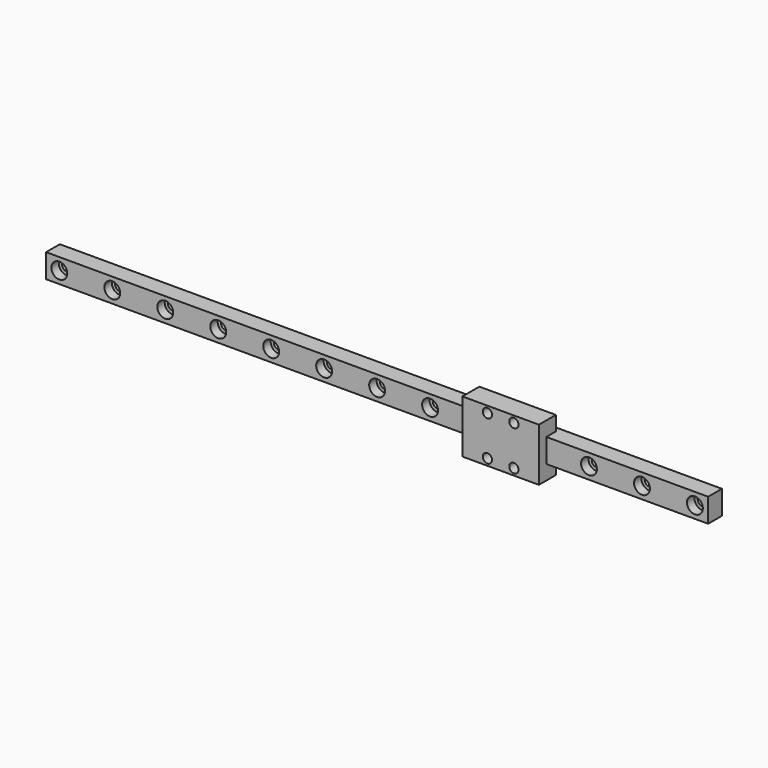
from build123d import *

# Parameters (mm, degrees)
SKETCH006_W             = 9
SKETCH006_H             = 250
PAD003_DEPTH            = 6.5
SKETCH008_R             = 1.75
POCKET003_DEPTH         = 6.5
LINEARPATTERN002_COUNT  = 13
LINEARPATTERN002_PITCH  = 20
SKETCH009_R             = 3
POCKET002_DEPTH         = 3.5
LINEARPATTERN003_COUNT  = 13
LINEARPATTERN003_PITCH  = 20
SKETCH007_W             = 20
SKETCH007_H             = 28.9
SKETCH007_R             = 1.75
PAD004_DEPTH            = 8
BODY002_PITCH_ANGLE     = 90
BODY002_PLACEMENT_ANGLE = -90


with BuildPart() as part:
    # Sketch006 → Pad003 (new body)
    with BuildSketch(Plane.XY):
        with Locations((0, 125)):
            Rectangle(SKETCH006_W, SKETCH006_H)
    extrude(amount=-PAD003_DEPTH)

    # Sketch008 → Pocket003 (cut)
    with BuildSketch(Plane.XY):
        with Locations((0, 5)):
            Circle(SKETCH008_R)
    pocket003 = extrude(amount=-POCKET003_DEPTH, mode=Mode.SUBTRACT)

    # LinearPattern002: Pocket003 ×13
    with Locations(*[(0, i * LINEARPATTERN002_PITCH, 0) for i in range(1, LINEARPATTERN002_COUNT)]):
        add(pocket003, mode=Mode.SUBTRACT)

    # Sketch009 → Pocket002 (cut)
    with BuildSketch(Plane.XY):
        with Locations((0, 5)):
            Circle(SKETCH009_R)
    pocket002 = extrude(amount=-POCKET002_DEPTH, mode=Mode.SUBTRACT)

    # LinearPattern003: Pocket002 ×13
    with Locations(*[(0, i * LINEARPATTERN003_PITCH, 0) for i in range(1, LINEARPATTERN003_COUNT)]):
        add(pocket002, mode=Mode.SUBTRACT)

    # Sketch007 → Pad004 (join)
    with BuildSketch(Plane.XY.offset(-4.5)):
        with Locations((0, 174.45)):
            Rectangle(SKETCH007_W, SKETCH007_H)
        with Locations((-7.5, 179.45)):
            Circle(SKETCH007_R, mode=Mode.SUBTRACT)
        with Locations((7.5, 179.45)):
            Circle(SKETCH007_R, mode=Mode.SUBTRACT)
        with Locations((7.5, 169.45)):
            Circle(SKETCH007_R, mode=Mode.SUBTRACT)
        with Locations((-7.5, 169.45)):
            Circle(SKETCH007_R, mode=Mode.SUBTRACT)
    extrude(amount=PAD004_DEPTH)


with BuildPart() as part_1:
    # Body002 pitch: moved
    add(part.part.rotate(Axis((0, 0, 0), (0, 1, 0)), BODY002_PITCH_ANGLE))


with BuildPart() as part_2:
    # Body002 placement: moved
    add(part_1.part.moved(Location((-125, 0, 0))).rotate(Axis((-125, 0, 0), (0, 0, 1)), BODY002_PLACEMENT_ANGLE))


solid = part_2.part
